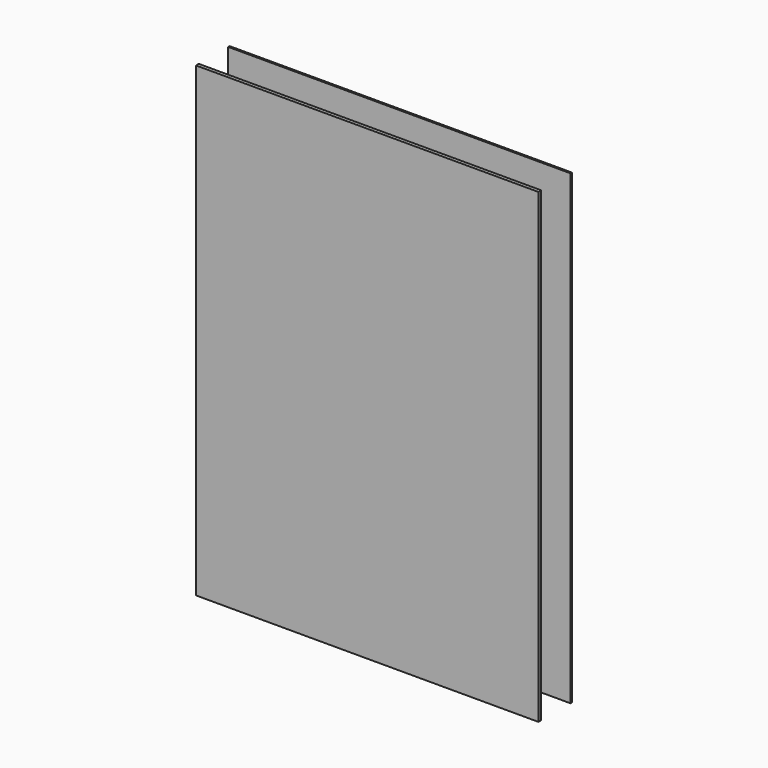
from build123d import *

# Parameters (mm, degrees)
F0_W     = 98
F0_H     = 133.5145288536
F1_DEPTH = 0.5
F3_START = 11
F2_W     = 98
F2_H     = 133.5145288536
F3_DEPTH = 1


with BuildPart() as f1:
    # F0 (on Front) → F1 (new body)
    with BuildSketch(Plane.XZ):
        with Locations((-49, 66.7572644268)):
            Rectangle(F0_W, F0_H)
    extrude(amount=F1_DEPTH)


with BuildPart() as f3:
    # F2 (on Front) → F3 (new body)
    with BuildSketch(Plane.XZ.offset(F3_START)):
        with Locations((-49, 66.7572644268)):
            Rectangle(F2_W, F2_H)
    extrude(amount=F3_DEPTH)


solid = Compound([f1.part, f3.part])
